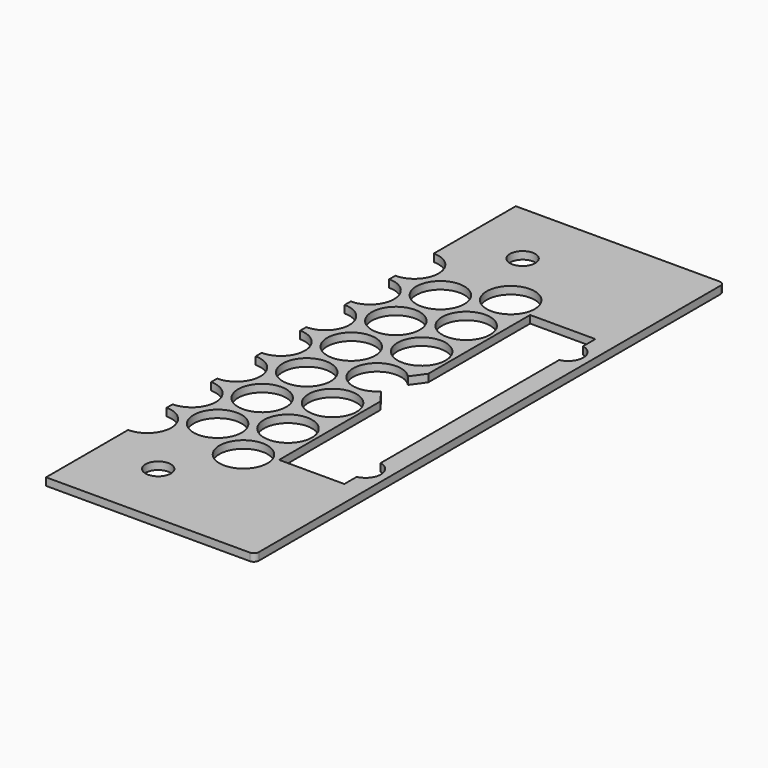
from build123d import *

# Parameters (mm, degrees)
SKETCH082_W     = 445
SKETCH082_H     = 232
PAD025_DEPTH    = 3
SKETCH083_R     = 9.5
POCKET054_DEPTH = 5
FILLET010_R     = 2
POCKET055_DEPTH = 10.001
SKETCH085_R     = 6
SKETCH085_R_2   = 5
POCKET056_DEPTH = 5
SKETCH094_W     = 459.410004
SKETCH094_H     = 453.216675
POCKET063_DEPTH = 5


with BuildPart() as part:
    # Sketch082 → Pad025 (new body)
    with BuildSketch(Plane.XY):
        Rectangle(SKETCH082_W, SKETCH082_H)
    extrude(amount=PAD025_DEPTH)

    # Sketch083 (on Face6 of Pad025) → Pocket054 (cut)
    with BuildSketch(Plane.XY.offset(3)):
        with Locations((-183, 55)):
            Circle(SKETCH083_R)
        with Locations((-183, 33)):
            Circle(SKETCH083_R)
        with Locations((-183, 11)):
            Circle(SKETCH083_R)
        with Locations((-183, -11)):
            Circle(SKETCH083_R)
        with Locations((-183, -33)):
            Circle(SKETCH083_R)
        with Locations((-183, -55)):
            Circle(SKETCH083_R)
        with Locations((-164, 44)):
            Circle(SKETCH083_R)
        with Locations((-164, 22)):
            Circle(SKETCH083_R)
        with Locations((-164, 0)):
            Circle(SKETCH083_R)
        with Locations((-164, -22)):
            Circle(SKETCH083_R)
        with Locations((-164, -44)):
            Circle(SKETCH083_R)
        with Locations((-145, 55)):
            Circle(SKETCH083_R)
        with Locations((-145, 33)):
            Circle(SKETCH083_R)
        with Locations((-145, 11)):
            Circle(SKETCH083_R)
        with Locations((-145, -11)):
            Circle(SKETCH083_R)
        with Locations((-145, -33)):
            Circle(SKETCH083_R)
        with Locations((-145, -55)):
            Circle(SKETCH083_R)
        with Locations((-126, 44)):
            Circle(SKETCH083_R)
        with Locations((-126, 22)):
            Circle(SKETCH083_R)
        with Locations((-126, 0)):
            Circle(SKETCH083_R)
        with Locations((-126, -22)):
            Circle(SKETCH083_R)
        with Locations((-126, -44)):
            Circle(SKETCH083_R)
        with Locations((-107, 55)):
            Circle(SKETCH083_R)
        with Locations((-107, 33)):
            Circle(SKETCH083_R)
        with Locations((-107, 11)):
            Circle(SKETCH083_R)
        with Locations((-107, -11)):
            Circle(SKETCH083_R)
        with Locations((-107, -33)):
            Circle(SKETCH083_R)
        with Locations((-107, -55)):
            Circle(SKETCH083_R)
        with Locations((-88, -44)):
            Circle(SKETCH083_R)
        with Locations((-88, -22)):
            Circle(SKETCH083_R)
        with Locations((-88, 0)):
            Circle(SKETCH083_R)
        with Locations((-88, 22)):
            Circle(SKETCH083_R)
        with Locations((-88, 44)):
            Circle(SKETCH083_R)
        with Locations((-69, 55)):
            Circle(SKETCH083_R)
        with Locations((-69, 33)):
            Circle(SKETCH083_R)
        with Locations((-69, 11)):
            Circle(SKETCH083_R)
        with Locations((-69, -11)):
            Circle(SKETCH083_R)
        with Locations((-69, -33)):
            Circle(SKETCH083_R)
        with Locations((-50, 44)):
            Circle(SKETCH083_R)
        with Locations((-50, 22)):
            Circle(SKETCH083_R)
        with Locations((-50, 0)):
            Circle(SKETCH083_R)
        with Locations((-50, -22)):
            Circle(SKETCH083_R)
        with Locations((-50, -44)):
            Circle(SKETCH083_R)
        with Locations((-69, -55)):
            Circle(SKETCH083_R)
        with Locations((-31, 55)):
            Circle(SKETCH083_R)
        with Locations((-31, 33)):
            Circle(SKETCH083_R)
        with Locations((-31, 11)):
            Circle(SKETCH083_R)
        with Locations((-31, -11)):
            Circle(SKETCH083_R)
        with Locations((-31, -33)):
            Circle(SKETCH083_R)
        with Locations((-31, -55)):
            Circle(SKETCH083_R)
        with Locations((-12, -44)):
            Circle(SKETCH083_R)
        with Locations((-12, -22)):
            Circle(SKETCH083_R)
        with Locations((-12, 0)):
            Circle(SKETCH083_R)
        with Locations((-12, 22)):
            Circle(SKETCH083_R)
        with Locations((-12, 44)):
            Circle(SKETCH083_R)
        with Locations((7, 55)):
            Circle(SKETCH083_R)
        with Locations((7, 33)):
            Circle(SKETCH083_R)
        with Locations((7, 11)):
            Circle(SKETCH083_R)
        with Locations((7, -11)):
            Circle(SKETCH083_R)
        with Locations((7, -33)):
            Circle(SKETCH083_R)
        with Locations((7, -55)):
            Circle(SKETCH083_R)
        with Locations((26, -44)):
            Circle(SKETCH083_R)
        with Locations((26, -22)):
            Circle(SKETCH083_R)
        with Locations((26, 0)):
            Circle(SKETCH083_R)
        with Locations((26, 22)):
            Circle(SKETCH083_R)
        with Locations((26, 44)):
            Circle(SKETCH083_R)
        with Locations((45, 55)):
            Circle(SKETCH083_R)
        with Locations((45, 33)):
            Circle(SKETCH083_R)
        with Locations((45, 11)):
            Circle(SKETCH083_R)
        with Locations((45, -11)):
            Circle(SKETCH083_R)
        with Locations((64, 0)):
            Circle(SKETCH083_R)
        with Locations((64, 22)):
            Circle(SKETCH083_R)
        with Locations((64, 44)):
            Circle(SKETCH083_R)
        with Locations((45, -33)):
            Circle(SKETCH083_R)
        with Locations((45, -55)):
            Circle(SKETCH083_R)
        with Locations((64, -44)):
            Circle(SKETCH083_R)
        with Locations((64, -22)):
            Circle(SKETCH083_R)
        with Locations((83, 55)):
            Circle(SKETCH083_R)
        with Locations((83, 33)):
            Circle(SKETCH083_R)
        with Locations((83, 11)):
            Circle(SKETCH083_R)
        with Locations((83, -11)):
            Circle(SKETCH083_R)
        with Locations((83, -33)):
            Circle(SKETCH083_R)
        with Locations((83, -55)):
            Circle(SKETCH083_R)
        with Locations((102, 44)):
            Circle(SKETCH083_R)
        with Locations((102, 22)):
            Circle(SKETCH083_R)
        with Locations((102, 0)):
            Circle(SKETCH083_R)
        with Locations((102, -22)):
            Circle(SKETCH083_R)
        with Locations((102, -44)):
            Circle(SKETCH083_R)
        with Locations((121, 55)):
            Circle(SKETCH083_R)
        with Locations((121, 33)):
            Circle(SKETCH083_R)
        with Locations((121, 11)):
            Circle(SKETCH083_R)
        with Locations((121, -11)):
            Circle(SKETCH083_R)
        with Locations((121, -33)):
            Circle(SKETCH083_R)
        with Locations((121, -55)):
            Circle(SKETCH083_R)
        with Locations((140, 44)):
            Circle(SKETCH083_R)
        with Locations((140, 22)):
            Circle(SKETCH083_R)
        with Locations((140, 0)):
            Circle(SKETCH083_R)
        with Locations((140, -22)):
            Circle(SKETCH083_R)
        with Locations((140, -44)):
            Circle(SKETCH083_R)
        with Locations((159, 55)):
            Circle(SKETCH083_R)
        with Locations((159, 33)):
            Circle(SKETCH083_R)
        with Locations((159, 11)):
            Circle(SKETCH083_R)
        with Locations((159, -11)):
            Circle(SKETCH083_R)
        with Locations((159, -33)):
            Circle(SKETCH083_R)
        with Locations((159, -55)):
            Circle(SKETCH083_R)
        with Locations((-164, 66)):
            Circle(SKETCH083_R)
        with Locations((-126, 66)):
            Circle(SKETCH083_R)
        with Locations((-88, 66)):
            Circle(SKETCH083_R)
        with Locations((-50, 66)):
            Circle(SKETCH083_R)
        with Locations((-12, 66)):
            Circle(SKETCH083_R)
        with Locations((26, 66)):
            Circle(SKETCH083_R)
        with Locations((64, 66)):
            Circle(SKETCH083_R)
        with Locations((102, 66)):
            Circle(SKETCH083_R)
        with Locations((140, 66)):
            Circle(SKETCH083_R)
        with Locations((-164, -66)):
            Circle(SKETCH083_R)
        with Locations((-126, -66)):
            Circle(SKETCH083_R)
        with Locations((-88, -66)):
            Circle(SKETCH083_R)
        with Locations((-50, -66)):
            Circle(SKETCH083_R)
        with Locations((-12, -66)):
            Circle(SKETCH083_R)
        with Locations((26, -66)):
            Circle(SKETCH083_R)
        with Locations((64, -66)):
            Circle(SKETCH083_R)
        with Locations((102, -66)):
            Circle(SKETCH083_R)
        with Locations((140, -66)):
            Circle(SKETCH083_R)
        with Locations((178, 66)):
            Circle(SKETCH083_R)
        with Locations((178, 44)):
            Circle(SKETCH083_R)
        with Locations((178, 22)):
            Circle(SKETCH083_R)
        with Locations((178, 0)):
            Circle(SKETCH083_R)
        with Locations((178, -22)):
            Circle(SKETCH083_R)
        with Locations((178, -44)):
            Circle(SKETCH083_R)
        with Locations((178, -66)):
            Circle(SKETCH083_R)
    extrude(amount=-POCKET054_DEPTH, mode=Mode.SUBTRACT)

    # Fillet010
    fillet010_edges = [part.edges().sort_by_distance(p)[0] for p in [
        (-222.5, -116, 1.5),
        (222.5, -116, 1.5),
        (222.5, 116, 1.5),
        (-222.5, 116, 1.5),
    ]]
    fillet(fillet010_edges, radius=FILLET010_R)

    # Sketch084 → Pocket055 (cut, through all)
    with BuildSketch(Plane.XY.offset(10)):
        Polygon((188.873749, -62), (214.664444, -62), (214.664444, 62), (188.873749, 62), (188.873749, 11.724954), (183.462372, 4.250606), (183.462372, -4.752587), (188.873749, -11.972128), align=None)
    extrude(amount=-POCKET055_DEPTH, mode=Mode.SUBTRACT)

    # Sketch085 (on Face2 of Pocket055) → Pocket056 (cut)
    with BuildSketch(Plane(origin=(0, 0, 0), x_dir=(1, 0, 0), z_dir=(0, 0, -1))):
        with Locations((213.5, 50)):
            Circle(SKETCH085_R)
        with Locations((213.5, -50)):
            Circle(SKETCH085_R)
        with Locations((-213.5, 50)):
            Circle(SKETCH085_R)
        with Locations((-213.5, -50)):
            Circle(SKETCH085_R)
        with Locations((-163.5, 90)):
            Circle(SKETCH085_R_2)
        with Locations((-25.5, 90)):
            Circle(SKETCH085_R_2)
        with Locations((163.5, 90)):
            Circle(SKETCH085_R_2)
        with Locations((163.5, -90)):
            Circle(SKETCH085_R_2)
        with Locations((-25.5, -90)):
            Circle(SKETCH085_R_2)
        with Locations((-163.5, -90)):
            Circle(SKETCH085_R_2)
    extrude(amount=-POCKET056_DEPTH, mode=Mode.SUBTRACT)

    # Sketch094 (on Face5 of Pocket056) → Pocket063 (cut)
    with BuildSketch(Plane.XY.offset(3)):
        with Locations((-89.705002, -21.970826)):
            Rectangle(SKETCH094_W, SKETCH094_H)
    extrude(amount=-POCKET063_DEPTH, mode=Mode.SUBTRACT)


with BuildPart() as part_1:
    # Body021 placement: moved
    add(part.part.moved(Location((0, 0, -3))))


solid = part_1.part
